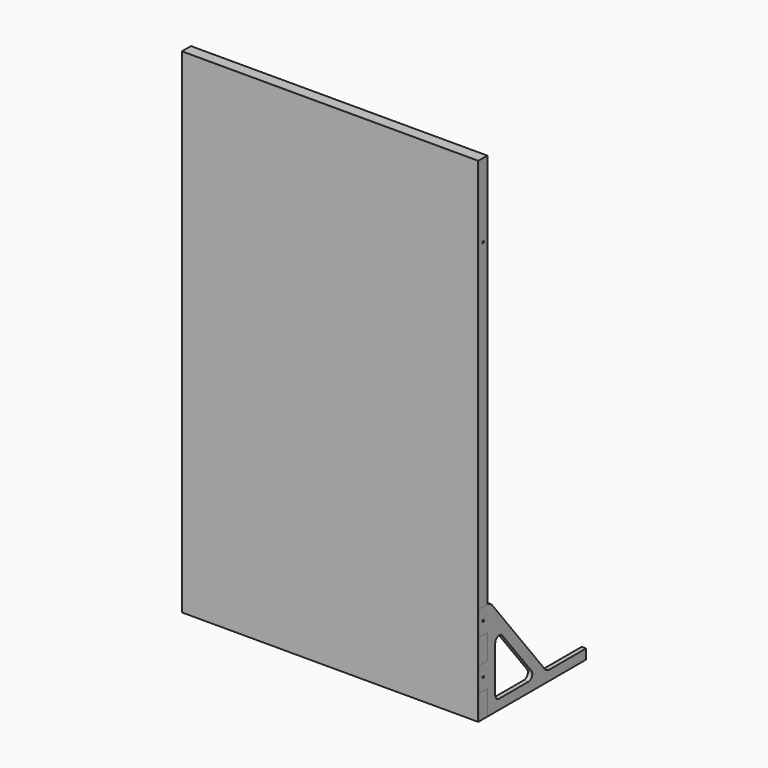
from build123d import *

# Parameters (mm, degrees)
F3_W      = 18
F3_H      = 100
F4_DEPTH  = 4
F5_DEPTH  = 42
F8_DEPTH  = 18
F6_R      = 4
F10_DEPTH = 1200


with BuildPart() as f4:
    # F3 (on Front) → F4 (new body)
    with BuildSketch(Plane.XZ):
        Polygon((-600, -900), (-600, -1000), (-558, -1000), (-558, -958), (-558, -908), (-558, -766.5786437627), (-558, 766.5786437627), (-558, 908), (-558, 958), (-558, 1000), (-600, 1000), (-600, -600), (-582, -600), (-582, -700), (-600, -700), (-600, -800), (-582, -800), (-582, -900), align=None)
        Polygon((-558, -958), (-558, -1000), (558, -1000), (558, -958), (508, -958), (366.5786437627, -958), (-366.5786437627, -958), (-508, -958), align=None)
        with Locations((-591, -850)):
            Rectangle(F3_W, F3_H)
        Polygon((558, -958), (558, -1000), (600, -1000), (600, -900), (582, -900), (582, -800), (600, -800), (600, -700), (582, -700), (582, -600), (600, -600), (600, 1000), (558, 1000), (558, 958), (558, 908), (558, 766.5786437627), (558, -766.5786437627), (558, -908), align=None)
        with Locations((-591, -650)):
            Rectangle(F3_W, F3_H)
        with Locations((591, -850)):
            Rectangle(F3_W, F3_H)
        with Locations((591, -650)):
            Rectangle(F3_W, F3_H)
        Polygon((-508, 958), (-366.5786437627, 958), (366.5786437627, 958), (508, 958), (558, 958), (558, 1000), (-558, 1000), (-558, 958), align=None)
        Polygon((-558, 958), (-558, 908), (-508, 958), align=None)
        Polygon((-558, 908), (-558, 766.5786437627), (-366.5786437627, 958), (-508, 958), align=None)
        Polygon((-558, 766.5786437627), (-558, -766.5786437627), (-366.5786437627, -958), (366.5786437627, -958), (558, -766.5786437627), (558, 766.5786437627), (366.5786437627, 958), (-366.5786437627, 958), align=None)
        Polygon((366.5786437627, 958), (558, 766.5786437627), (558, 908), (508, 958), align=None)
        Polygon((508, 958), (558, 908), (558, 958), align=None)
        Polygon((508, -958), (558, -908), (558, -766.5786437627), (366.5786437627, -958), align=None)
        Polygon((508, -958), (558, -958), (558, -908), align=None)
        Polygon((-558, -766.5786437627), (-558, -908), (-508, -958), (-366.5786437627, -958), align=None)
        Polygon((-558, -908), (-558, -958), (-508, -958), align=None)
    extrude(amount=F4_DEPTH)


with BuildPart() as f5:
    # F3 (on Front) → F5 (new body)
    with BuildSketch(Plane.XZ):
        Polygon((-558, -958), (-558, -1000), (558, -1000), (558, -958), (508, -958), (366.5786437627, -958), (-366.5786437627, -958), (-508, -958), align=None)
        Polygon((-508, 958), (-366.5786437627, 958), (366.5786437627, 958), (508, 958), (558, 958), (558, 1000), (-558, 1000), (-558, 958), align=None)
        Polygon((-600, -900), (-600, -1000), (-558, -1000), (-558, -958), (-558, -908), (-558, -766.5786437627), (-558, 766.5786437627), (-558, 908), (-558, 958), (-558, 1000), (-600, 1000), (-600, -600), (-582, -600), (-582, -700), (-600, -700), (-600, -800), (-582, -800), (-582, -900), align=None)
        Polygon((558, -958), (558, -1000), (600, -1000), (600, -900), (582, -900), (582, -800), (600, -800), (600, -700), (582, -700), (582, -600), (600, -600), (600, 1000), (558, 1000), (558, 958), (558, 908), (558, 766.5786437627), (558, -766.5786437627), (558, -908), align=None)
        Polygon((-558, 908), (-558, 766.5786437627), (-366.5786437627, 958), (-508, 958), align=None)
        Polygon((366.5786437627, 958), (558, 766.5786437627), (558, 908), (508, 958), align=None)
        Polygon((508, -958), (558, -908), (558, -766.5786437627), (366.5786437627, -958), align=None)
        Polygon((-558, -766.5786437627), (-558, -908), (-508, -958), (-366.5786437627, -958), align=None)
    extrude(amount=-F5_DEPTH)


with BuildPart() as f8:
    # F7 (on face) → F8 (new body)
    with BuildSketch(Plane.YZ.offset(582)):
        with BuildLine():
            Line((42, -700), (42, -800))
            Line((42, -800), (0, -800))
            Line((0, -800), (0, -900))
            Line((0, -900), (42, -900))
            Line((42, -900), (42, -1000))
            Line((42, -1000), (542, -1000))
            Line((542, -1000), (542, -960))
            Line((542, -960), (356.4971909226, -960))
            ThreePointArc((356.4971909226, -960), (343.4441814195, -957.011459474), (332.9918017756, -948.6412628609))
            Line((332.9918017756, -948.6412628609), (65.505389147, -611.3587371391))
            ThreePointArc((65.505389147, -611.3587371391), (55.053009503, -602.988540526), (42, -600))
            Line((42, -600), (0, -600))
            Line((0, -600), (0, -700))
            Line((0, -700), (42, -700))
        make_face()
        with BuildLine():
            Line((249.560549471, -960), (102, -960))
            ThreePointArc((102, -960), (87.8578643763, -954.1421356237), (82, -940))
            Line((82, -940), (82, -753.9359889971))
            ThreePointArc((82, -753.9359889971), (95.4199235805, -735.0494171982), (117.6702594313, -741.5084804231))
            Line((117.6702594313, -741.5084804231), (265.2308089023, -927.5724914261))
            ThreePointArc((265.2308089023, -927.5724914261), (267.5681891203, -948.7020063354), (249.560549471, -960))
        make_face(mode=Mode.SUBTRACT)
    extrude(amount=F8_DEPTH)


with BuildPart() as f9_1:
    # F9: instance of F8
    add(f8.part.mirror(Plane.YZ))


with BuildPart() as f10_tool:
    # F6 (on face) → F10 (new body)
    with BuildSketch(Plane(origin=(-600, 0, 0), x_dir=(0, -1, 0), z_dir=(-1, 0, 0))):
        with Locations((-21, 700)):
            Circle(F6_R)
        with Locations((-21, -650)):
            Circle(F6_R)
        with Locations((-21, -850)):
            Circle(F6_R)
    extrude(amount=-F10_DEPTH)


with BuildPart() as f5_1:
    add(f5.part)

    # F10: cut by f10_tool
    add(f10_tool.part, mode=Mode.SUBTRACT)


with BuildPart() as f8_1:
    add(f8.part)

    # F10: cut by f10_tool
    add(f10_tool.part, mode=Mode.SUBTRACT)


with BuildPart() as f9_1_1:
    add(f9_1.part)

    # F10: cut by f10_tool
    add(f10_tool.part, mode=Mode.SUBTRACT)


solid = Compound([f4.part, f5_1.part, f8_1.part, f9_1_1.part])
